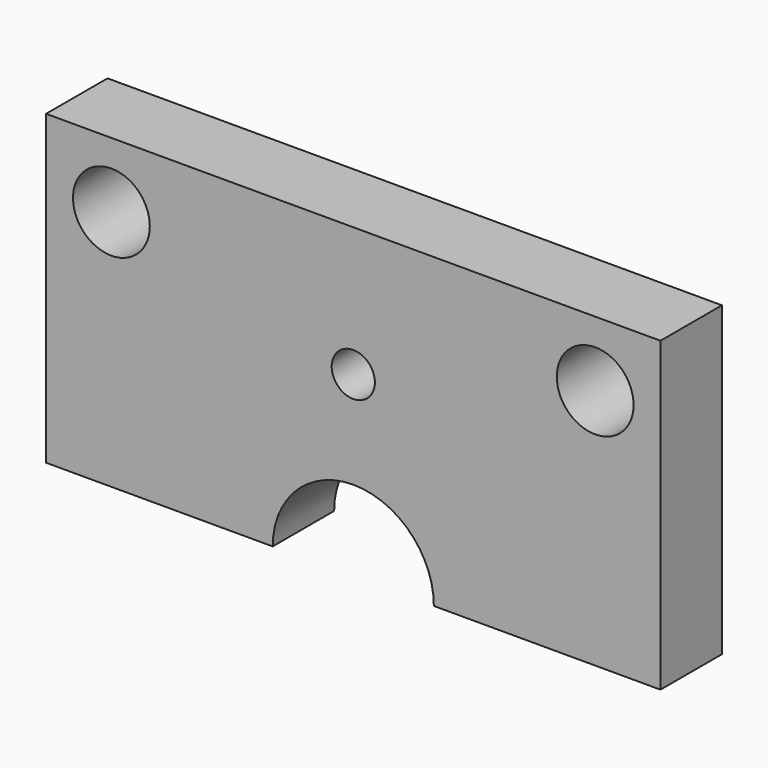
from build123d import *

# Parameters (mm, degrees)
SKETCH057_R  = 3.571875
PAD057_DEPTH = 30
SKETCH056_R  = 6.35
PAD056_DEPTH = 12.7


with BuildPart() as body056:
    # Sketch057 → Pad057 (new body)
    with BuildSketch(Plane.XZ):
        Circle(SKETCH057_R)
    extrude(amount=PAD057_DEPTH)


with BuildPart() as body056_1:
    # Body056 placement: moved
    add(body056.part.moved(Location((41.6, 2, 149.369))))


with BuildPart() as cut048:
    # Sketch056 → Pad056 (new body)
    with BuildSketch(Plane.XZ):
        with BuildLine():
            Line((-50.8, 110), (-50.8, 160.8))
            Line((-50.8, 160.8), (50.8, 160.8))
            Line((50.8, 160.8), (50.8, 110))
            Line((50.8, 110), (13.325, 110))
            ThreePointArc((13.325, 110), (0, 123.324965), (-13.325, 110))
            Line((-50.8, 110), (-13.325, 110))
        make_face()
        with Locations((-40, 150)):
            Circle(SKETCH056_R, mode=Mode.SUBTRACT)
        with Locations((40, 150)):
            Circle(SKETCH056_R, mode=Mode.SUBTRACT)
    extrude(amount=PAD056_DEPTH)


with BuildPart() as cut048_1:
    # Body057 placement: moved
    add(cut048.part.moved(Location((41.6, 0, 10))))

    # Cut048: cut Body056
    add(body056_1.part, mode=Mode.SUBTRACT)


with BuildPart() as cut048_2:
    # Cut048 placement: moved
    add(cut048_1.part.moved(Location((99.2, 0, 0))))


solid = cut048_2.part
